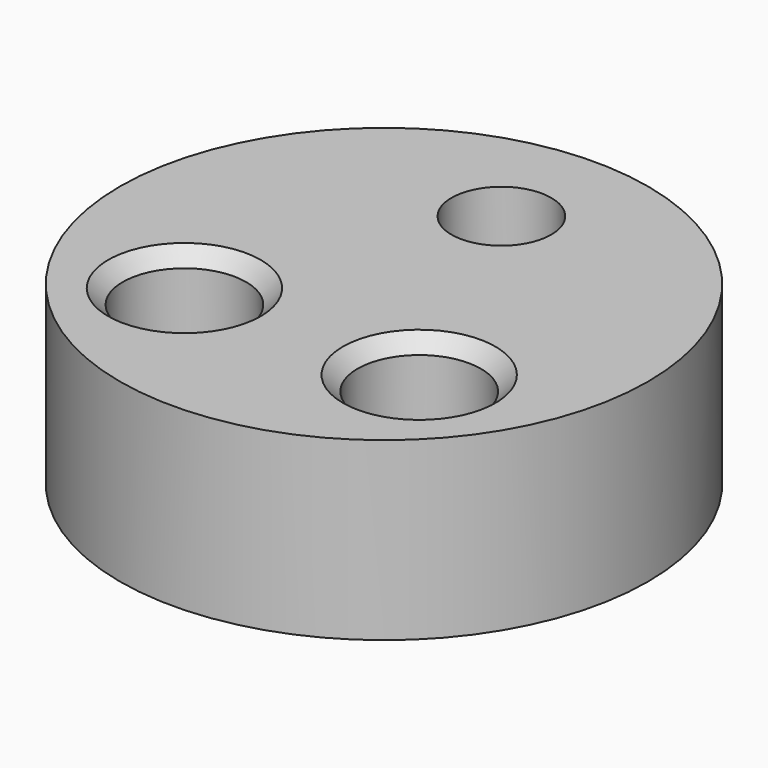
from build123d import *

# Parameters (mm, degrees)
PAD001_START    = 6
SKETCH007_R     = 9
PAD001_DEPTH    = 6
SKETCH008_R     = 1.7
HOLE001_DEPTH   = 6.001
POCKET006_START = -5
SKETCH009_R     = 3.8
POCKET006_DEPTH = 95
SKETCH010_R     = 2.1
POCKET007_DEPTH = 58.307787
CHAMFER_SIZE    = 0.5


with BuildPart() as part:
    # Sketch007 → Pad001 (new body)
    with BuildSketch(Plane.XY.offset(PAD001_START)):
        Circle(SKETCH007_R)
    extrude(amount=PAD001_DEPTH)

    # Sketch008 (on Face3 of Pad001) → Hole001 (cut, through all)
    with BuildSketch(Plane.XY.offset(12)):
        with Locations((0, 5)):
            Circle(SKETCH008_R)
    extrude(amount=-HOLE001_DEPTH, mode=Mode.SUBTRACT)

    # Sketch009 (on Face3 of Hole001) → Pocket006 (cut)
    with BuildSketch(Plane.XY.offset(12).offset(POCKET006_START)):
        with Locations((0, 5)):
            Circle(SKETCH009_R)
    extrude(amount=-POCKET006_DEPTH, mode=Mode.SUBTRACT)

    # Sketch010 (on Face3 of Pocket006) → Pocket007 (cut, through all)
    with BuildSketch(Plane.XY.offset(12)):
        with Locations((-4, -3.5)):
            Circle(SKETCH010_R)
    pocket007 = extrude(amount=-POCKET007_DEPTH, mode=Mode.SUBTRACT)

    # Mirrored001: Pocket007 across YZ
    add(pocket007.mirror(Plane.YZ), mode=Mode.SUBTRACT)

    # Chamfer
    chamfer_edges = [part.edges().sort_by_distance(p)[0] for p in [
        (6.1, -3.5, 12),
        (-6.1, -3.5, 12),
    ]]
    chamfer(chamfer_edges, length=CHAMFER_SIZE)


solid = part.part
